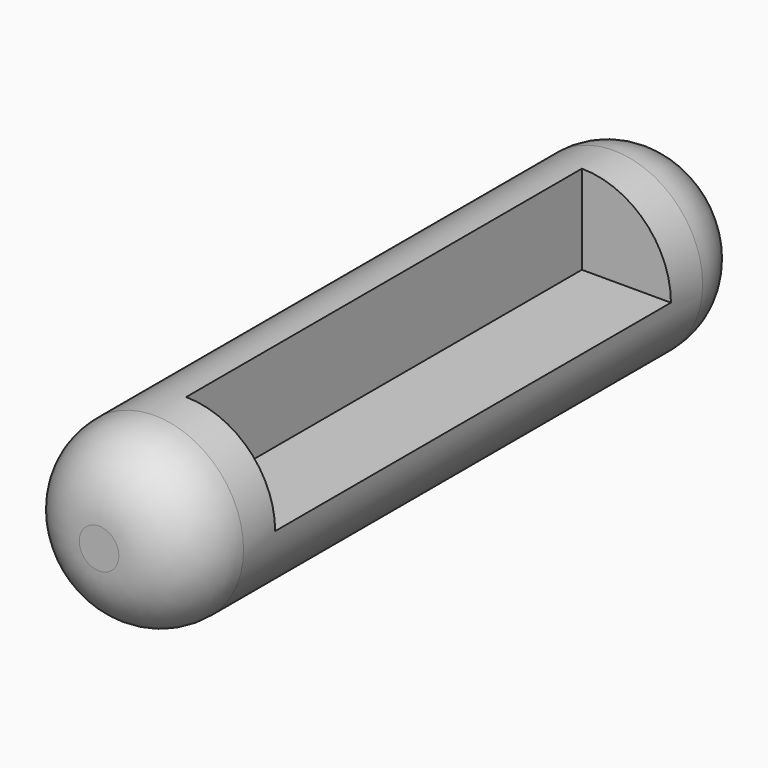
from build123d import *

# Parameters (mm, degrees)
F0_R     = 57.15
F1_DEPTH = 228.6
F2_R     = 44.45
F3_W     = 317.5
F3_H     = 76.2
F4_DEPTH = 57.151


with BuildPart() as f1:
    # F0 (on Front) → F1 (new body, symmetric)
    with BuildSketch(Plane.XZ):
        Circle(F0_R)
    extrude(amount=F1_DEPTH, both=True)

    # F2
    f2_edges = [f1.edges().sort_by_distance(p)[0] for p in [
        (-57.15, -228.6, 0),
        (-57.15, 228.6, 0),
    ]]
    fillet(f2_edges, radius=F2_R)

    # F3 (on Right) → F4 (cut, through all)
    with BuildSketch(Plane.YZ):
        with Locations((0, 38.1)):
            Rectangle(F3_W, F3_H)
    extrude(amount=F4_DEPTH, mode=Mode.SUBTRACT)


solid = f1.part
